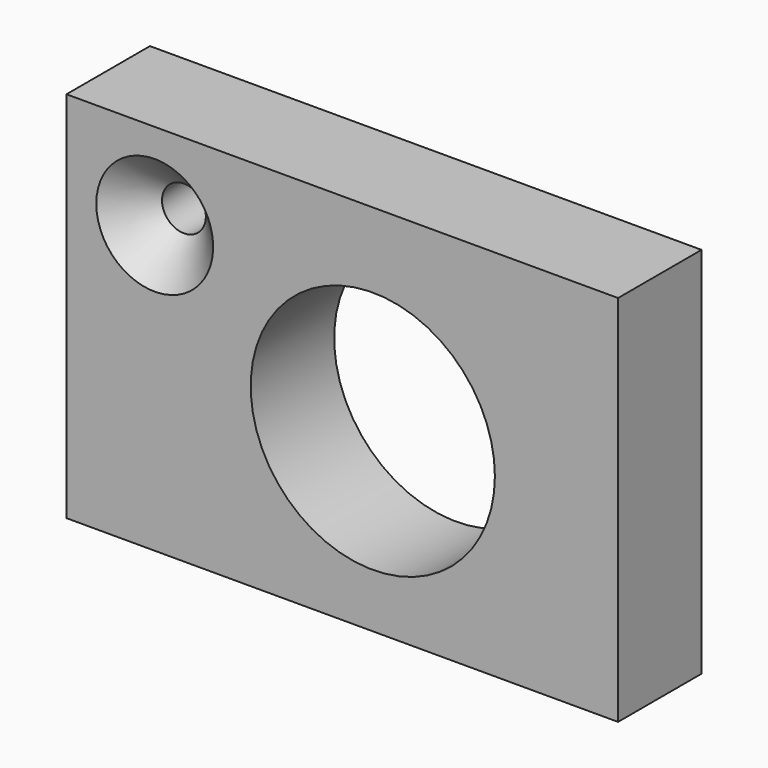
from build123d import *

# Parameters (mm, degrees)
F0_W           = 52.8737902641
F0_H           = 35.7720032334
F0_R           = 11.7040072329
F1_DEPTH       = 5
F3_D           = 4.2
F3_CSINK_D     = 11.2
F3_CSINK_ANGLE = 90


with BuildPart() as f1:
    # F0 (on Front) → F1 (new body, symmetric)
    with BuildSketch(Plane.XZ):
        with Locations((26.4368951321, 17.8860016167)):
            Rectangle(F0_W, F0_H)
        with Locations((29.3628163636, 16.887685284)):
            Circle(F0_R, mode=Mode.SUBTRACT)
    extrude(amount=F1_DEPTH, both=True)

    # F3 (through all)
    with Locations(Plane.XZ.offset(5)):
        with Locations((8.4595484659, 27.4640917778)):
            CounterSinkHole(F3_D / 2, F3_CSINK_D / 2, counter_sink_angle=F3_CSINK_ANGLE)


solid = f1.part
